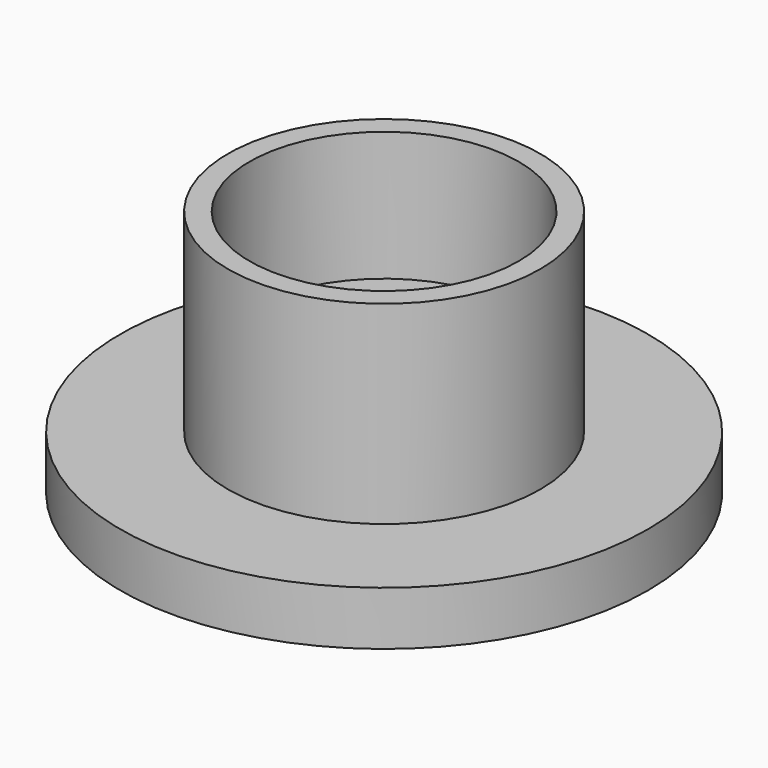
from build123d import *

# Parameters (mm, degrees)
F0_R     = 24.5
F0_R_2   = 5.5
F1_DEPTH = 5
F2_R     = 14.5
F2_R_2   = 5.5
F3_DEPTH = 6
F4_R     = 12.5
F4_R_2   = 10
F4_R_3   = 14.5
F5_DEPTH = 12


with BuildPart() as f1:
    # F0 (on Top) → F1 (new body)
    with BuildSketch(Plane.XY):
        Circle(F0_R)
        Circle(F0_R_2, mode=Mode.SUBTRACT)
    extrude(amount=F1_DEPTH)

    # F2 (on face) → F3 (join)
    with BuildSketch(Plane.XY.offset(5)):
        Circle(F2_R)
        Circle(F2_R_2, mode=Mode.SUBTRACT)
    extrude(amount=F3_DEPTH)

    # F4 (on face) → F5 (join)
    with BuildSketch(Plane.XY.offset(11)):
        Circle(F4_R)
        Circle(F4_R_2, mode=Mode.SUBTRACT)
        Circle(F4_R_3)
        Circle(F4_R, mode=Mode.SUBTRACT)
    extrude(amount=F5_DEPTH)


solid = f1.part
